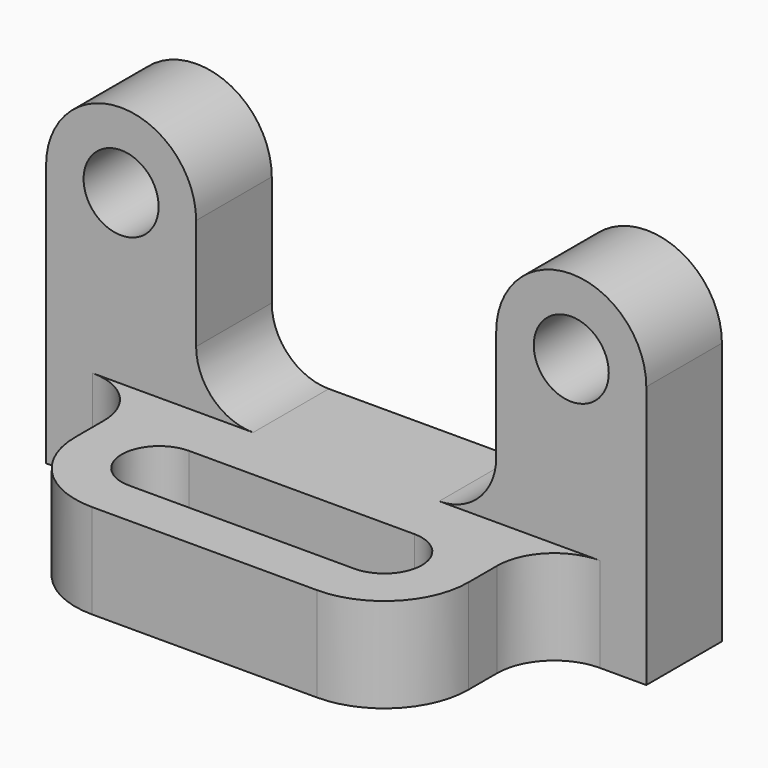
from build123d import *

# Parameters (mm, degrees)
F0_R     = 6.35
F1_DEPTH = 16.002
F3_DEPTH = 16.002


with BuildPart() as f1:
    # F0 (on Front) → F1 (new body)
    with BuildSketch(Plane.XZ):
        with BuildLine():
            ThreePointArc((-25.4, 44.45), (-38.1, 57.15), (-50.8, 44.45))
            Line((-50.8, 44.45), (-50.8, 0))
            Line((-50.8, 0), (50.8, 0))
            Line((50.8, 0), (50.8, 44.45))
            ThreePointArc((50.8, 44.45), (38.1, 57.15), (25.4, 44.45))
            Line((25.4, 44.45), (25.4, 25.654))
            ThreePointArc((25.4, 25.654), (22.572995, 18.829005), (15.748, 16.002))
            Line((15.748, 16.002), (-15.748, 16.002))
            ThreePointArc((-15.748, 16.002), (-22.572995, 18.829005), (-25.4, 25.654))
            Line((-25.4, 25.654), (-25.4, 44.45))
        make_face()
        with Locations((-38.1, 44.45)):
            Circle(F0_R, mode=Mode.SUBTRACT)
        with Locations((38.1, 44.45)):
            Circle(F0_R, mode=Mode.SUBTRACT)
    extrude(amount=-F1_DEPTH)

    # F2 (on Top) → F3 (join)
    with BuildSketch(Plane.XY):
        with BuildLine():
            Line((33.274, 0), (-33.274, 0))
            Line((-33.274, 0), (-42.926, 0))
            ThreePointArc((-42.926, 0), (-36.101005, -2.827005), (-33.274, -9.652))
            Line((-33.274, -9.652), (-33.274, -15.748))
            ThreePointArc((-33.274, -15.748), (-29.107887, -25.805887), (-19.05, -29.972))
            Line((-19.05, -29.972), (19.05, -29.972))
            ThreePointArc((19.05, -29.972), (29.107887, -25.805887), (33.274, -15.748))
            Line((33.274, -15.748), (33.274, -9.652))
            ThreePointArc((33.274, -9.652), (36.101005, -2.827005), (42.926, 0))
            Line((42.926, 0), (33.274, 0))
        make_face()
        with BuildLine():
            ThreePointArc((-19.05, -22.098), (-25.4, -15.748), (-19.05, -9.398))
            Line((-19.05, -9.398), (19.05, -9.398))
            ThreePointArc((19.05, -9.398), (25.4, -15.748), (19.05, -22.098))
            Line((19.05, -22.098), (-19.05, -22.098))
        make_face(mode=Mode.SUBTRACT)
    extrude(amount=F3_DEPTH)


solid = f1.part
